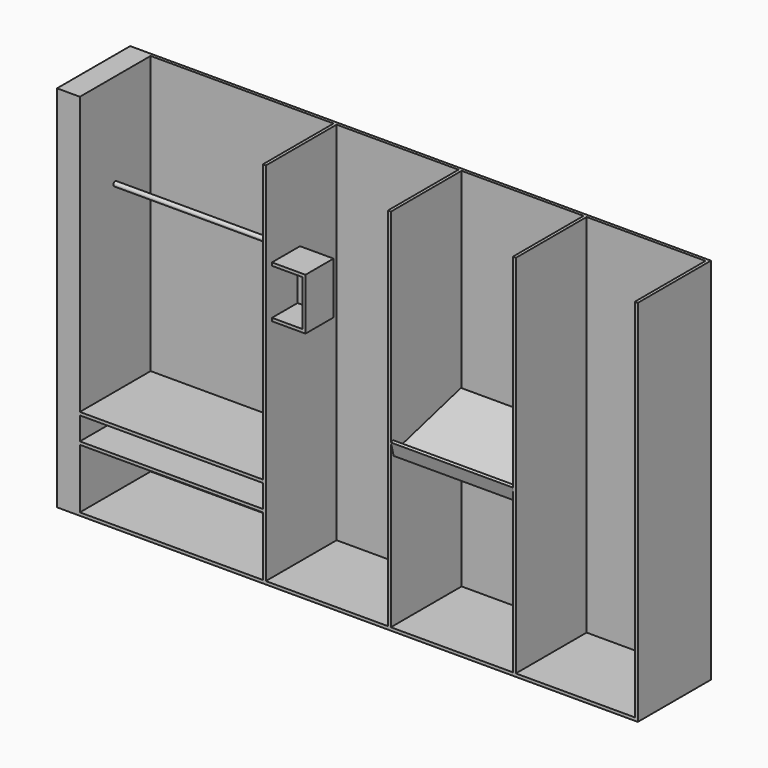
from build123d import *

# Parameters (mm, degrees)
F0_W      = 1200
F0_H      = 2400
F0_W_2    = 130
F0_H_2    = 2420
F0_W_3    = 800
F1_DEPTH  = 600
F2_START  = 20
F2_DEPTH  = 580
F3_R      = 15
F4_DEPTH  = 1200
F6_START  = 820
F6_DEPTH  = 800
F8_START  = 300
F7_W      = 200
F7_H      = 300
F8_DEPTH  = 230
F9_START  = 320
F9_DEPTH  = 260
F10_W     = 780
F10_H     = 2400
F11_DEPTH = 600
F12_START = 20
F12_DEPTH = 580


with BuildPart() as f1:
    # F0 (on Front) → F1 (new body)
    with BuildSketch(Plane.XZ):
        with Locations((-820, 0)):
            Rectangle(F0_W, F0_H)
        with Locations((-1505, -10)):
            Rectangle(F0_W_2, F0_H_2)
        with Locations((200, 0)):
            Rectangle(F0_W_3, F0_H)
        with Locations((1020, 0)):
            Rectangle(F0_W_3, F0_H)
        Polygon((1420, 1200), (1420, -1200), (620, -1200), (620, 1200), (600, 1200), (600, -1200), (-200, -1200), (-200, 1200), (-220, 1200), (-220, -1200), (-1420, -1200), (-1420, 1200), (-1440, 1200), (-1440, -1220), (1440, -1220), (1440, 1200), align=None)
    extrude(amount=F1_DEPTH)

    # F0 (on Front) → F2 (cut)
    with BuildSketch(Plane.XZ.offset(F2_START)):
        with Locations((1020, 0)):
            Rectangle(F0_W_3, F0_H)
        with Locations((200, 0)):
            Rectangle(F0_W_3, F0_H)
        with Locations((-820, 0)):
            Rectangle(F0_W, F0_H)
    extrude(amount=F2_DEPTH, mode=Mode.SUBTRACT)

    # F3 (on face) → F4 (join, through all)
    with BuildSketch(Plane.YZ.offset(-1420)):
        with Locations((-310, 580)):
            Circle(F3_R)
        Polygon((-20, -620), (-600, -620), (-600, -640), (-310, -640), (-310, -790), (-600, -790), (-600, -810), (-290, -810), (-290, -640), (-20, -640), align=None)
    extrude(amount=F4_DEPTH)

    # F7 (on face) → F8 (join)
    with BuildSketch(Plane.XZ.offset(20).offset(F8_START)):
        Polygon((-200, 620), (-200, 600), (0, 600), (0, 300), (-200, 300), (-200, 280), (20, 280), (20, 620), align=None)
        with Locations((-100, 450)):
            Rectangle(F7_W, F7_H)
    extrude(amount=F8_DEPTH)

    # F7 (on face) → F9 (cut)
    with BuildSketch(Plane.XZ.offset(20).offset(F9_START)):
        with Locations((-100, 450)):
            Rectangle(F7_W, F7_H)
    extrude(amount=F9_DEPTH, mode=Mode.SUBTRACT)

    # F10 (on Front) → F11 (join)
    with BuildSketch(Plane.XZ):
        Polygon((1440, -1200), (1440, -1220), (2240, -1220), (2240, 1200), (2220, 1200), (2220, -1200), align=None)
        with Locations((1830, 0)):
            Rectangle(F10_W, F10_H)
    extrude(amount=F11_DEPTH)

    # F10 (on Front) → F12 (cut)
    with BuildSketch(Plane.XZ.offset(F12_START)):
        with Locations((1830, 0)):
            Rectangle(F10_W, F10_H)
    extrude(amount=F12_DEPTH, mode=Mode.SUBTRACT)


with BuildPart() as f6:
    # F5 (on face) → F6 (new body)
    with BuildSketch(Plane.YZ.offset(-200).offset(F6_START)):
        Polygon((-580.6814834742, -127.8902947319), (-600, -133.066675634), (-576.7062859408, -220), (-20, -70.8310002608), (-25.1763809021, -51.5124837351), (-562.564150317, -195.5051025722), align=None)
    extrude(amount=F6_DEPTH)


solid = Compound([f1.part, f6.part])
